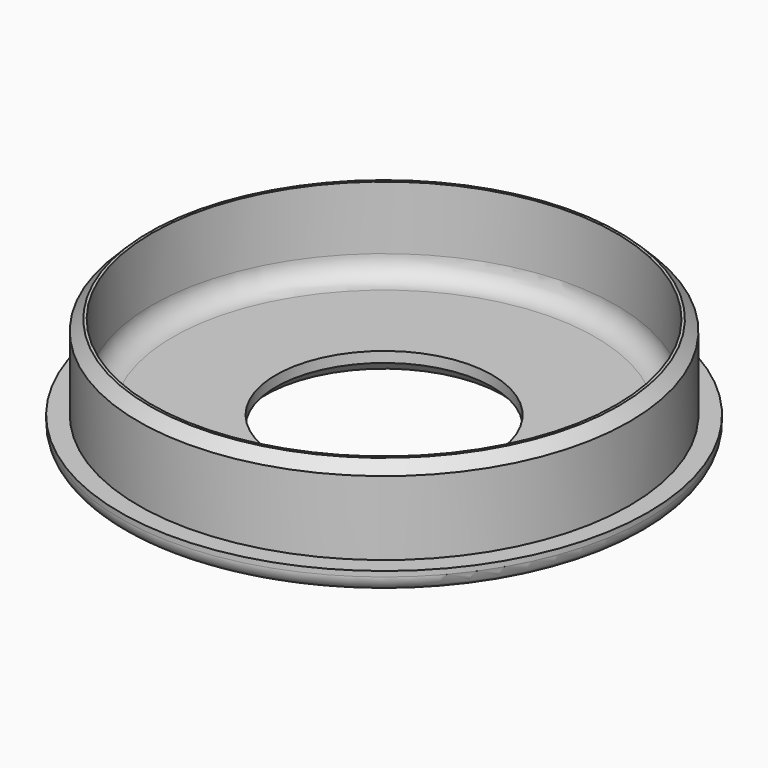
from build123d import *

# Parameters (mm, degrees)
F0_R     = 25
F0_R_2   = 10.25
F1_DEPTH = 2
F2_R     = 23.25
F2_R_2   = 22
F3_DEPTH = 8
F4_SIZE  = 1
F5_R     = 1.5
F6_SIZE  = 1
F7_R     = 2


with BuildPart() as f1:
    # F0 (on Top) → F1 (new body)
    with BuildSketch(Plane.XY):
        Circle(F0_R)
        Circle(F0_R_2, mode=Mode.SUBTRACT)
    extrude(amount=F1_DEPTH)

    # F2 (on face) → F3 (join)
    with BuildSketch(Plane.XY.offset(2)):
        Circle(F2_R)
        Circle(F2_R_2, mode=Mode.SUBTRACT)
    extrude(amount=F3_DEPTH)

    # F4
    f4_edges = [f1.edges().sort_by_distance(p)[0] for p in [
        (-23.25, 0, 10),
    ]]
    chamfer(f4_edges, length=F4_SIZE)

    # F5
    f5_edges = [f1.edges().sort_by_distance(p)[0] for p in [
        (-25, 0, 0),
    ]]
    fillet(f5_edges, radius=F5_R)

    # F6
    f6_edges = [f1.edges().sort_by_distance(p)[0] for p in [
        (-10.25, 0, 0),
    ]]
    chamfer(f6_edges, length=F6_SIZE)

    # F7
    f7_edges = [f1.edges().sort_by_distance(p)[0] for p in [
        (-22, 0, 2),
    ]]
    fillet(f7_edges, radius=F7_R)


solid = f1.part
